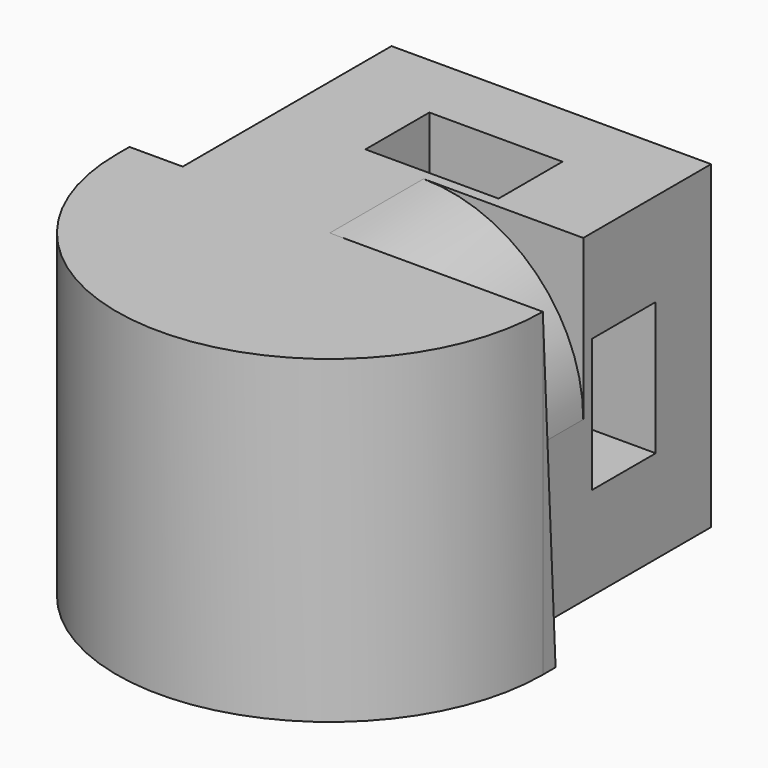
from build123d import *

# Parameters (mm, degrees)
PAD_DEPTH       = 6
PAD001_DEPTH    = 2.2
PAD002_DEPTH    = 1
PAD003_DEPTH    = 1
SKETCH004_W     = 6
SKETCH004_H     = 6
PAD004_DEPTH    = 3
SKETCH005_W     = 2.5
SKETCH005_H     = 1.5
POCKET_DEPTH    = 6.001
SKETCH006_W     = 1.5
SKETCH006_H     = 2.5
POCKET001_DEPTH = 7.001


with BuildPart() as part:
    # Sketch → Pad (new body)
    with BuildSketch(Plane.XY):
        with BuildLine():
            Line((-4, 0), (4, 0))
            ThreePointArc((-4, 0), (0, -4), (4, 0))
        make_face()
    extrude(amount=PAD_DEPTH)

    # Sketch001 (on Face1 of Pad) → Pad001 (join)
    with BuildSketch(Plane(origin=(0, 0, 0), x_dir=(-1, 0, 0), z_dir=(0, 1, 0))):
        with BuildLine():
            Line((-3, 3), (-3, 0))
            Line((-3, 0), (0, 0))
            ThreePointArc((0, 0), (2.12132, 0.87868), (3, 3))
            Line((3, 3), (3, 6))
            Line((3, 6), (0, 6))
            ThreePointArc((0, 6), (-2.12132, 5.12132), (-3, 3))
        make_face()
    extrude(amount=PAD001_DEPTH)

    # Sketch002 (on Face7 of Pad001) → Pad002 (join)
    with BuildSketch(Plane.YZ.offset(3)):
        Polygon((0, 0), (0, 6), (0.3, 0), align=None)
    extrude(amount=PAD002_DEPTH)

    # Sketch003 (on Face3 of Pad002) → Pad003 (join)
    with BuildSketch(Plane(origin=(-3, 0, 0), x_dir=(0, -1, 0), z_dir=(-1, 0, 0))):
        Polygon((0, 0), (0, 6), (-0.3, 6), align=None)
    extrude(amount=PAD003_DEPTH)

    # Sketch004 (on Face6 of Pad003) → Pad004 (join)
    with BuildSketch(Plane(origin=(0, 2.2, 0), x_dir=(-1, 0, 0), z_dir=(0, 1, 0))):
        with Locations((0, 3)):
            Rectangle(SKETCH004_W, SKETCH004_H)
    extrude(amount=PAD004_DEPTH)

    # Sketch005 (on Face18 of Pad004) → Pocket (cut, through all)
    with BuildSketch(Plane.XY.offset(6)):
        with Locations((0, 3.15)):
            Rectangle(SKETCH005_W, SKETCH005_H)
    extrude(amount=-POCKET_DEPTH, mode=Mode.SUBTRACT)

    # Sketch006 (on Face5 of Pocket) → Pocket001 (cut, through all)
    with BuildSketch(Plane.YZ.offset(3)):
        with Locations((3.15, 3)):
            Rectangle(SKETCH006_W, SKETCH006_H)
    extrude(amount=-POCKET001_DEPTH, mode=Mode.SUBTRACT)


solid = part.part
